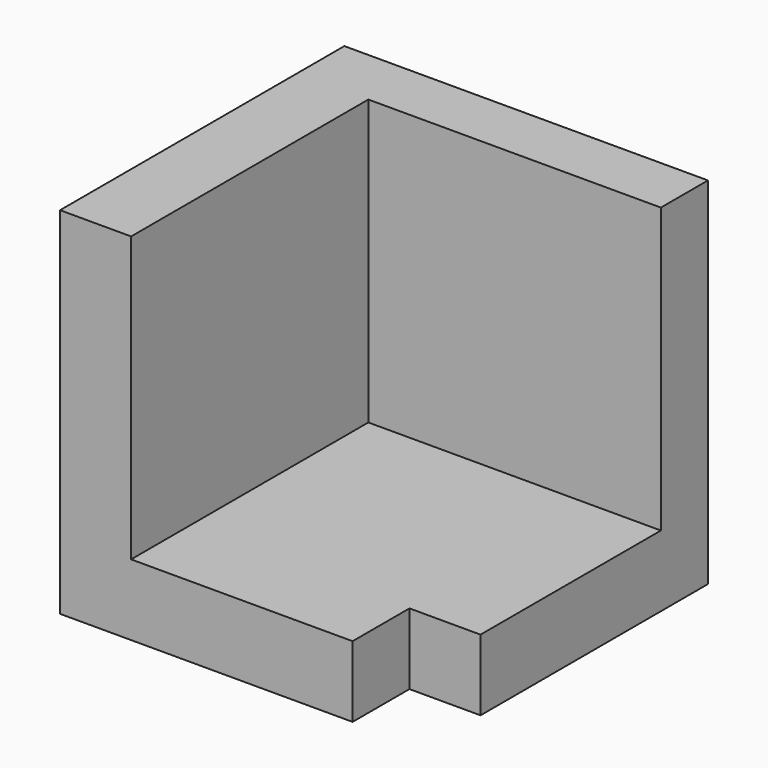
from build123d import *

# Parameters (mm, degrees)
F0_W     = 129.9482808348
F0_H     = 127
F1_DEPTH = 25.4
F2_W     = 25.4
F2_H     = 127
F3_DEPTH = 25.4
F4_DEPTH = 76.2
F5_W     = 104.5482808348
F5_H     = 21.0354196131
F6_DEPTH = 101.6
F7_W     = 25.4
F7_H     = 25.4
F8_DEPTH = 25.4


with BuildPart() as f1:
    # F0 (on Top) → F1 (new body)
    with BuildSketch(Plane.XY):
        with Locations((7.7071934938, 2.8795562685)):
            Rectangle(F0_W, F0_H)
    extrude(amount=F1_DEPTH)

    # F2 (on face) → F3 (join)
    with BuildSketch(Plane.XY.offset(25.4)):
        with Locations((-44.5669469236, 2.8795562685)):
            Rectangle(F2_W, F2_H)
    extrude(amount=F3_DEPTH)

    # F4 (add): a face of the model
    f4_faces = [f1.faces().sort_by_distance(p)[0] for p in [
        (-44.5669469236, 2.8795562685, 50.8),
    ]]
    extrude(f4_faces, amount=F4_DEPTH)

    # F5 (on face) → F6 (join)
    with BuildSketch(Plane.XY.offset(25.4)):
        with Locations((20.4071934938, 55.8618464619)):
            Rectangle(F5_W, F5_H)
    extrude(amount=F6_DEPTH)

    # F7 (on face) → F8 (cut)
    with BuildSketch(Plane.XY.offset(25.4)):
        with Locations((59.9813339112, -47.9204437315)):
            Rectangle(F7_W, F7_H)
    extrude(amount=-F8_DEPTH, mode=Mode.SUBTRACT)


solid = f1.part
